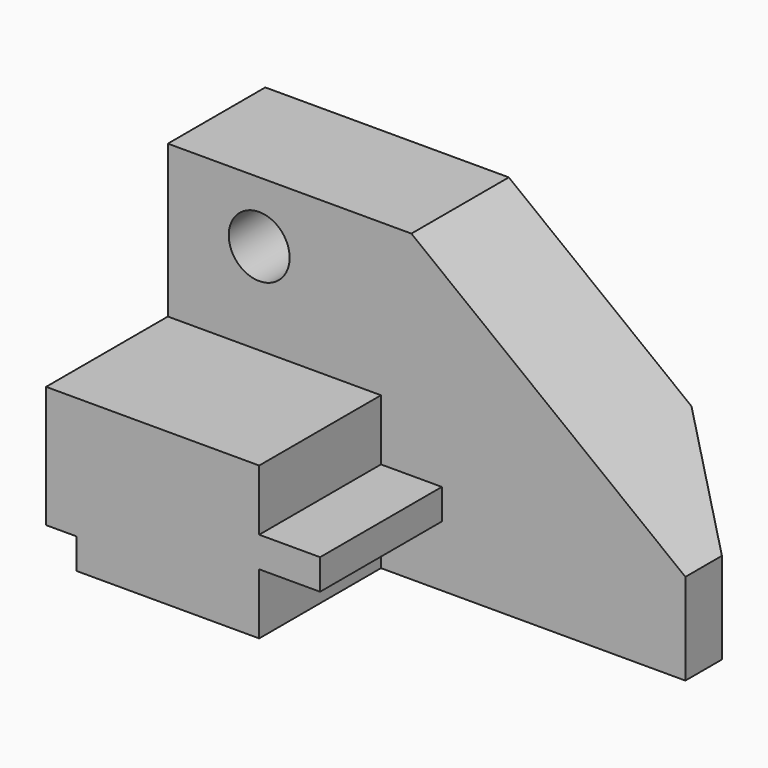
from build123d import *

# Parameters (mm, degrees)
F1_DEPTH = 31.75
F2_R     = 6.35
F3_DEPTH = 25.4
F5_DEPTH = 63.501
F6_W     = 6.35
F6_H     = 6.35
F7_DEPTH = 57.151


with BuildPart() as f1:
    # F0 (on Front) → F1 (new body)
    with BuildSketch(Plane.XZ):
        Polygon((0, 31.75), (0, 0), (44.45, 0), (44.45, 12.7), (57.15, 12.7), (57.15, 19.05), (44.45, 19.05), (44.45, 31.75), align=None)
    extrude(amount=F1_DEPTH)

    # F2 (on Front) → F3 (join)
    with BuildSketch(Plane.XZ):
        Polygon((0, 63.5), (0, 0), (107.95, 0), (107.95, 19.05), (50.8, 63.5), align=None)
        with Locations((19.05, 50.8)):
            Circle(F2_R, mode=Mode.SUBTRACT)
    extrude(amount=-F3_DEPTH)

    # F4 (on Top) → F5 (cut, through all)
    with BuildSketch(Plane.XY):
        Polygon((107.95, 25.4), (88.9, 25.4), (107.95, 9.525), align=None)
    extrude(amount=F5_DEPTH, mode=Mode.SUBTRACT)

    # F6 (on face) → F7 (cut, through all)
    with BuildSketch(Plane.XZ.offset(31.75)):
        with Locations((3.175, 3.175)):
            Rectangle(F6_W, F6_H)
    extrude(amount=-F7_DEPTH, mode=Mode.SUBTRACT)


solid = f1.part
